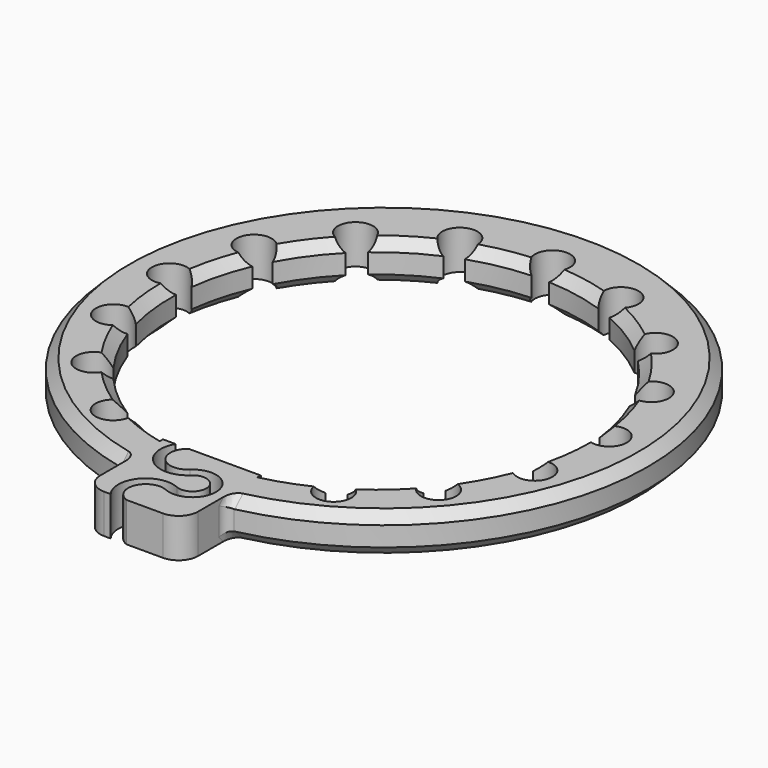
from build123d import *

# Parameters (mm, degrees)
SKETCH_R              = 27
SKETCH_R_2            = 21
PAD_DEPTH             = 4
CHAMFER_SIZE          = 1
CHAMFER001_SIZE       = 1
CHAMFER002_SIZE       = 1
CHAMFER003_SIZE       = 1
POCKET_DEPTH          = 156.945434
POLARPATTERN_COUNT    = 8
POLARPATTERN_ANGLE    = 150
POLARPATTERN001_COUNT = 8
POLARPATTERN001_ANGLE = 150
SKETCH002_W           = 10
SKETCH002_H           = 10
PAD001_DEPTH          = 4
POCKET001_DEPTH       = 4.001
FILLET_R              = 2
FILLET001_R           = 1
FILLET002_R           = 1


with BuildPart() as part:
    # Sketch → Pad (new body)
    with BuildSketch(Plane.XY):
        with Locations((0, 1)):
            Circle(SKETCH_R)
        Circle(SKETCH_R_2, mode=Mode.SUBTRACT)
    extrude(amount=PAD_DEPTH)

    # Chamfer
    chamfer_edges = [part.edges().sort_by_distance(p)[0] for p in [
        (-27, 1, 4),
    ]]
    chamfer(chamfer_edges, length=CHAMFER_SIZE)

    # Chamfer001
    chamfer001_edges = [part.edges().sort_by_distance(p)[0] for p in [
        (-21, 0, 4),
    ]]
    chamfer(chamfer001_edges, length=CHAMFER001_SIZE)

    # Chamfer002
    chamfer002_edges = [part.edges().sort_by_distance(p)[0] for p in [
        (-21, 0, 0),
    ]]
    chamfer(chamfer002_edges, length=CHAMFER002_SIZE)

    # Chamfer003
    chamfer003_edges = [part.edges().sort_by_distance(p)[0] for p in [
        (-27, 1, 0),
    ]]
    chamfer(chamfer003_edges, length=CHAMFER003_SIZE)

    # Sketch001 → Pocket (cut, through all)
    with BuildSketch(Plane.XY):
        with BuildLine():
            Line((0, 0), (0.9, 20.980705))
            ThreePointArc((0.9, 20.980705), (0, 24.339551), (-0.9, 20.980705))
            Line((-0.9, 20.980705), (0, 0))
        make_face()
    pocket = extrude(amount=POCKET_DEPTH, mode=Mode.SUBTRACT)

    # PolarPattern: Pocket ×8 about axis
    polarpattern_axis = Axis((0, 0, 0), (0, 0, 1))
    for i in range(1, POLARPATTERN_COUNT):
        add(pocket.rotate(polarpattern_axis, i * POLARPATTERN_ANGLE / (POLARPATTERN_COUNT - 1)), mode=Mode.SUBTRACT)

    # PolarPattern001: Pocket ×8 about axis
    polarpattern001_axis = Axis((0, 0, 0), (0, 0, -1))
    for i in range(1, POLARPATTERN001_COUNT):
        add(pocket.rotate(polarpattern001_axis, i * POLARPATTERN001_ANGLE / (POLARPATTERN001_COUNT - 1)), mode=Mode.SUBTRACT)

    # Sketch002 → Pad001 (join)
    with BuildSketch(Plane.XY):
        with Locations((0, -26)):
            Rectangle(SKETCH002_W, SKETCH002_H)
    extrude(amount=PAD001_DEPTH)

    # Sketch003 → Pocket001 (cut, through all)
    with BuildSketch(Plane.XY):
        with BuildLine():
            ThreePointArc((-1.292793, -19.632539), (-3.892533, -23.47242), (0.638221, -24.460145))
            ThreePointArc((1.032508, -26.752114), (2.983461, -25.236592), (0.638221, -24.460145))
            ThreePointArc((1.032508, -26.752114), (-2.848336, -28.724378), (-0.109931, -32.108445))
            Line((-0.109931, -31.108445), (-0.109931, -32.108445))
            ThreePointArc((0.624494, -27.665089), (-1.870334, -28.932973), (-0.109931, -31.108445))
            ThreePointArc((0.624494, -27.665089), (3.968984, -25.067053), (-0.051427, -23.736))
            ThreePointArc((-1.292793, -20.632539), (-2.964054, -23.101034), (-0.051427, -23.736))
            Line((-1.292793, -19.632539), (-1.292793, -20.632539))
        make_face()
    extrude(amount=POCKET001_DEPTH, mode=Mode.SUBTRACT)

    # Fillet
    fillet_edges = [part.edges().sort_by_distance(p)[0] for p in [
        (5, -31, 2),
        (-5, -31, 2),
    ]]
    fillet(fillet_edges, radius=FILLET_R)

    # Fillet001
    fillet001_edges = [part.edges().sort_by_distance(p)[0] for p in [
        (5, -25.023937, 3.500089),
        (5, -25.532998, 2),
        (5, -25.023937, 0.499911),
    ]]
    fillet(fillet001_edges, radius=FILLET001_R)

    # Fillet002
    fillet002_edges = [part.edges().sort_by_distance(p)[0] for p in [
        (-5, -25.023937, 0.499911),
        (-5, -25.532998, 2),
        (-5, -25.023937, 3.500089),
    ]]
    fillet(fillet002_edges, radius=FILLET002_R)


solid = part.part
